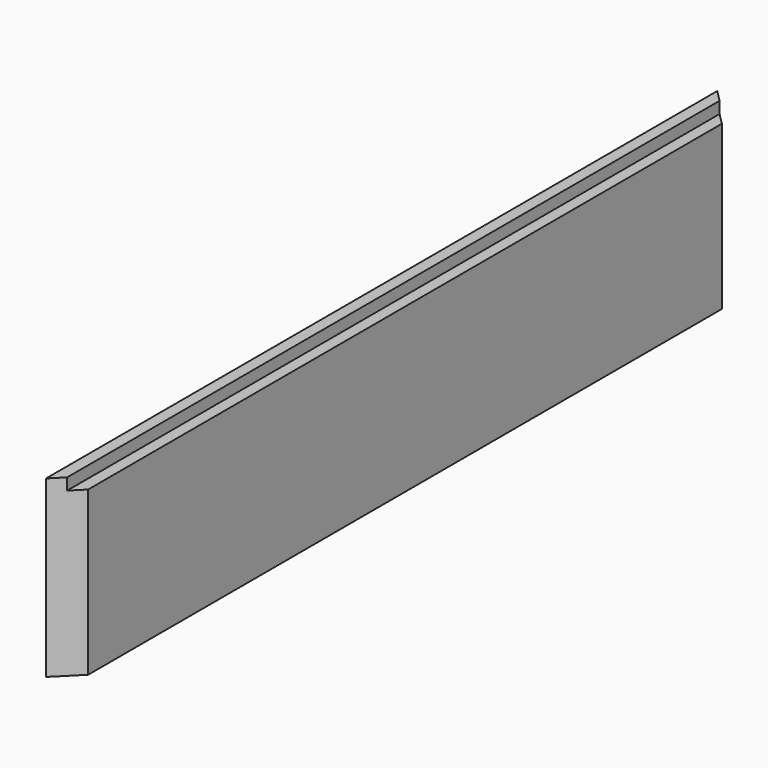
from build123d import *

# Parameters (mm, degrees)
F0_W     = 38.277834
F0_H     = 285.75
F1_DEPTH = 1371.6
F2_SIZE  = 38.1
F3_W     = 1333.5
F3_H     = 19.05
F4_DEPTH = 19.05


with BuildPart() as f1:
    # F0 (on Front) → F1 (new body)
    with BuildSketch(Plane.XZ):
        Rectangle(F0_W, F0_H)
    extrude(amount=F1_DEPTH)

    # F2
    f2_edges = [f1.edges().sort_by_distance(p)[0] for p in [
        (19.138917, -1371.6, 0),
        (19.138917, 0, 0),
    ]]
    chamfer(f2_edges, length=F2_SIZE)

    # F3 (on face) → F4 (cut)
    with BuildSketch(Plane.YZ.offset(19.138917)):
        with Locations((-685.8, 133.35)):
            Rectangle(F3_W, F3_H)
    extrude(amount=-F4_DEPTH, mode=Mode.SUBTRACT)


solid = f1.part
